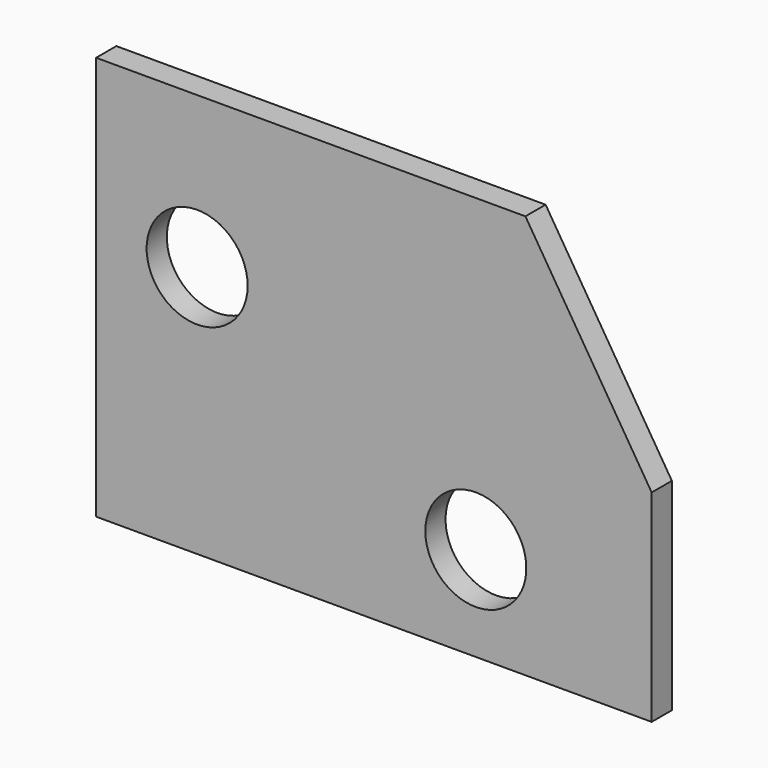
from build123d import *

# Parameters (mm, degrees)
F1_DEPTH = 6.35
F2_R     = 12.7
F3_DEPTH = 6.351
F5_D     = 25.4


with BuildPart() as f1:
    # F0 (on Front) → F1 (new body)
    with BuildSketch(Plane.XZ):
        Polygon((53.999179, 43.826219), (-53.950821, 43.826219), (-53.950821, -57.773781), (85.749179, -57.773781), (85.749179, -6.973781), align=None)
    extrude(amount=F1_DEPTH)

    # F2 (on face) → F3 (cut, through all)
    with BuildSketch(Plane.XZ.offset(6.35)):
        with Locations((-28.550821, 5.726219)):
            Circle(F2_R)
    extrude(amount=-F3_DEPTH, mode=Mode.SUBTRACT)

    # F5 (through all)
    with Locations(Plane.XZ.offset(6.35)):
        with Locations((41.528299, -34.020744)):
            Hole(F5_D / 2)


solid = f1.part
